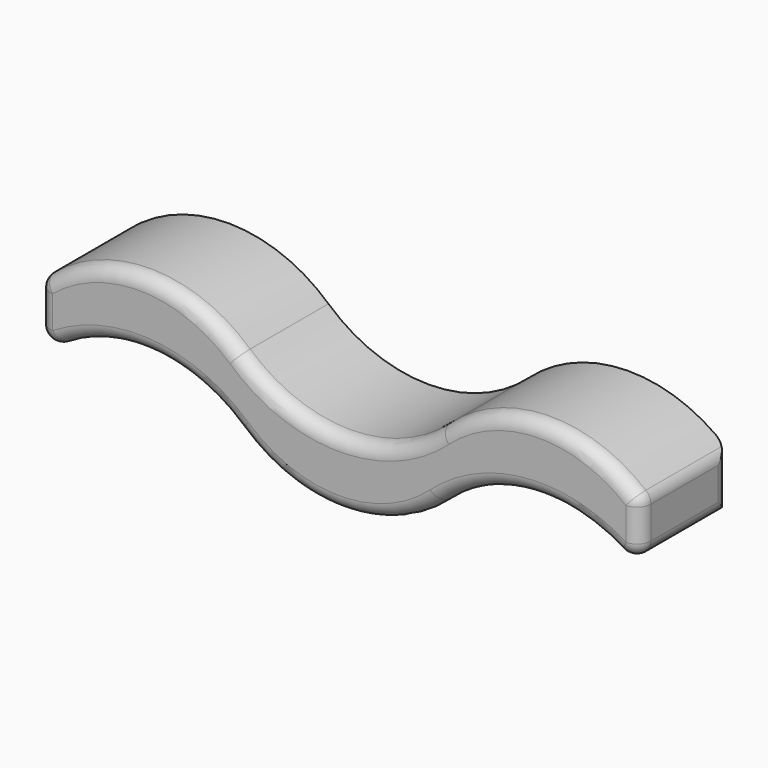
from build123d import *

# Parameters (mm, degrees)
F1_DEPTH = 1231.9
F2_R     = 152.4


with BuildPart() as f1:
    # F0 (on Front) → F1 (new body)
    with BuildSketch(Plane.XZ):
        with BuildLine():
            ThreePointArc((-4419.6, 0), (-3314.7, 424.216812), (-2209.8, 0))
            Line((-2209.8, 0), (-2209.8, 732.300009))
            ThreePointArc((-2209.8, 732.300009), (-3314.7, 1156.516821), (-4419.6, 732.300009))
            Line((-4419.6, 732.300009), (-4419.6, 0))
        make_face()
        with BuildLine():
            Line((-2209.8, 0), (0, 0))
            Line((0, 0), (0, 732.300009))
            ThreePointArc((0, 732.300009), (-1104.9, 308.083196), (-2209.8, 732.300009))
            Line((-2209.8, 732.300009), (-2209.8, 0))
        make_face()
        with BuildLine():
            ThreePointArc((-2209.8, 0), (-1104.9, -424.216812), (0, 0))
            Line((0, 0), (-2209.8, 0))
        make_face()
        with BuildLine():
            Line((0, 732.300009), (0, 0))
            ThreePointArc((0, 0), (1104.9, 424.216812), (2209.8, 0))
            Line((2209.8, 0), (2209.8, 732.300009))
            ThreePointArc((2209.8, 732.300009), (1104.9, 1156.516821), (0, 732.300009))
        make_face()
    extrude(amount=F1_DEPTH)

    # F2
    f2_edges = [f1.edges().sort_by_distance(p)[0] for p in [
        (-3314.7, -1231.9, 1156.516821),
        (-4419.6, -1231.9, 366.150004),
        (-3314.7, -1231.9, 424.216812),
        (-1104.9, -1231.9, -424.216812),
        (1104.9, -1231.9, 424.216812),
        (2209.8, -1231.9, 366.150004),
        (1104.9, -1231.9, 1156.516821),
        (-1104.9, -1231.9, 308.083196),
        (2209.8, -615.95, 0),
        (2209.8, -615.95, 732.300009),
        (2209.8, 0, 366.150004),
        (-4419.6, -615.95, 732.300009),
        (-4419.6, -615.95, 0),
        (-4419.6, 0, 366.150004),
    ]]
    fillet(f2_edges, radius=F2_R)


solid = f1.part
